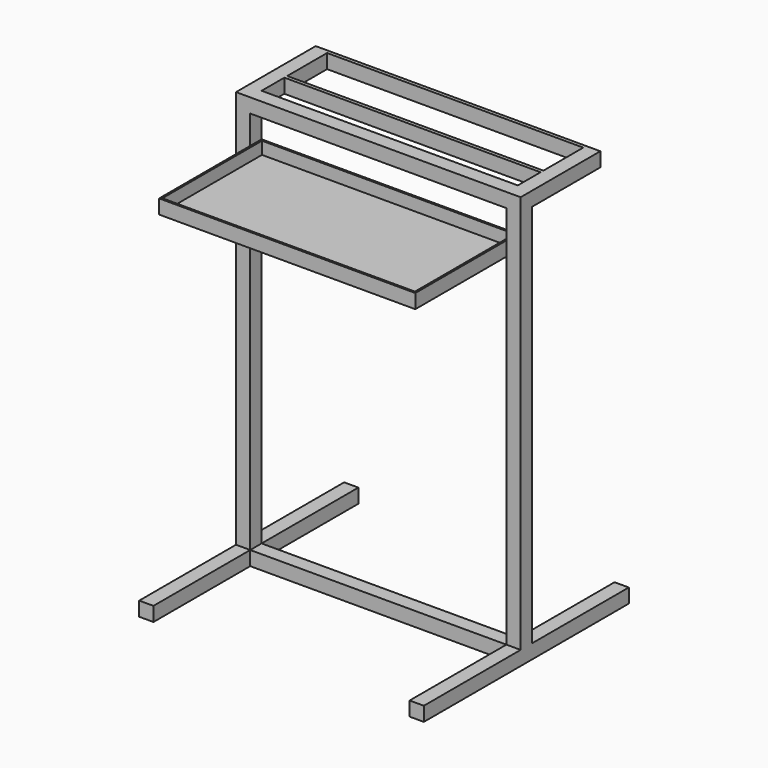
from build123d import *

# Parameters (mm, degrees)
F0_W     = 457.2
F0_H     = 25.4
F1_DEPTH = 25.4
F2_W     = 25.4
F2_H     = 25.4
F3_DEPTH = 711.2
F4_W     = 457.2
F4_H     = 6.35
F5_DEPTH = 25.4
F6_W     = 228.6
F6_H     = 25.4
F6_W_2   = 25.4
F7_DEPTH = 457.2
F8_W     = 450.85
F8_H     = 222.25
F9_DEPTH = 22.225


with BuildPart() as f1:
    # F0 (on Top) → F1 (new body)
    with BuildSketch(Plane.XY):
        Polygon((0, 457.2), (0, 0), (25.4, 0), (25.4, 215.9), (25.4, 241.3), (25.4, 457.2), align=None)
        with Locations((254, 228.6)):
            Rectangle(F0_W, F0_H)
        Polygon((482.6, 241.3), (482.6, 215.9), (482.6, 0), (508, 0), (508, 457.2), (482.6, 457.2), align=None)
    extrude(amount=F1_DEPTH)

    # F2 (on face) → F3 (join)
    with BuildSketch(Plane.XY.offset(25.4)):
        with Locations((12.7, 228.6)):
            Rectangle(F2_W, F2_H)
        with Locations((495.3, 228.6)):
            Rectangle(F2_W, F2_H)
    extrude(amount=F3_DEPTH)

    # F4 (on face) → F5 (join)
    with BuildSketch(Plane.XY.offset(736.6)):
        Polygon((0, 393.7), (0, 241.3), (25.4, 241.3), (25.4, 292.1), (25.4, 298.45), (25.4, 342.9), (25.4, 349.25), (25.4, 387.35), (25.4, 393.7), align=None)
        with Locations((254, 295.275)):
            Rectangle(F4_W, F4_H)
        with Locations((254, 390.525)):
            Rectangle(F4_W, F4_H)
        Polygon((482.6, 298.45), (482.6, 292.1), (482.6, 241.3), (508, 241.3), (508, 393.7), (482.6, 393.7), (482.6, 387.35), (482.6, 349.25), (482.6, 342.9), align=None)
    extrude(amount=-F5_DEPTH)

    # F6 (on face) → F7 (join, through all)
    with BuildSketch(Plane.YZ.offset(25.4)):
        with Locations((127, 647.7)):
            Rectangle(F6_W, F6_H)
        with Locations((228.6, 723.9)):
            Rectangle(F6_W_2, F6_H)
    extrude(amount=F7_DEPTH)

    # F8 (on face) → F9 (cut)
    with BuildSketch(Plane.XY.offset(660.4)):
        with Locations((254, 127)):
            Rectangle(F8_W, F8_H)
    extrude(amount=-F9_DEPTH, mode=Mode.SUBTRACT)


solid = f1.part
